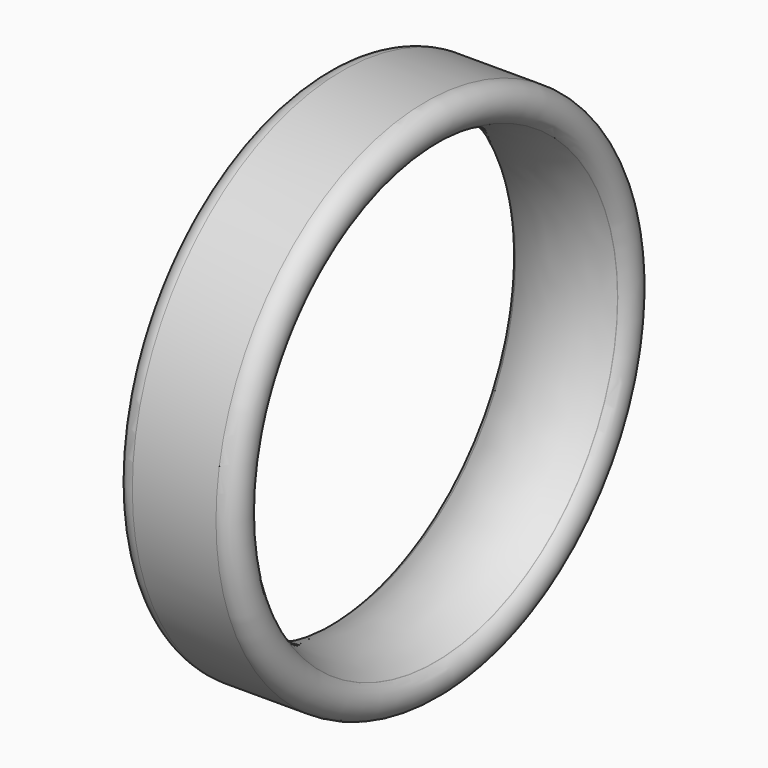
from build123d import *


with BuildPart() as part:
    # Sketch → Revolution (revolve)
    with BuildSketch(Plane.XY):
        with BuildLine():
            Line((-230.407807, -1091.3), (117.592193, -1091.3))
            ThreePointArc((117.592193, -1091.3), (190.885171, -1035.403217), (156.366526, -949.935246))
            Line((155.506463, -949.425057), (156.366526, -949.935246))
            ThreePointArc((155.506463, -949.425057), (-56.407807, -891.3), (-268.322077, -949.425057))
            Line((-269.18214, -949.935246), (-268.322077, -949.425057))
            ThreePointArc((-269.18214, -949.935246), (-303.700785, -1035.403217), (-230.407807, -1091.3))
        make_face()
    revolve(axis=Axis((0, 0, 0), (1, 0, 0)))


solid = part.part
